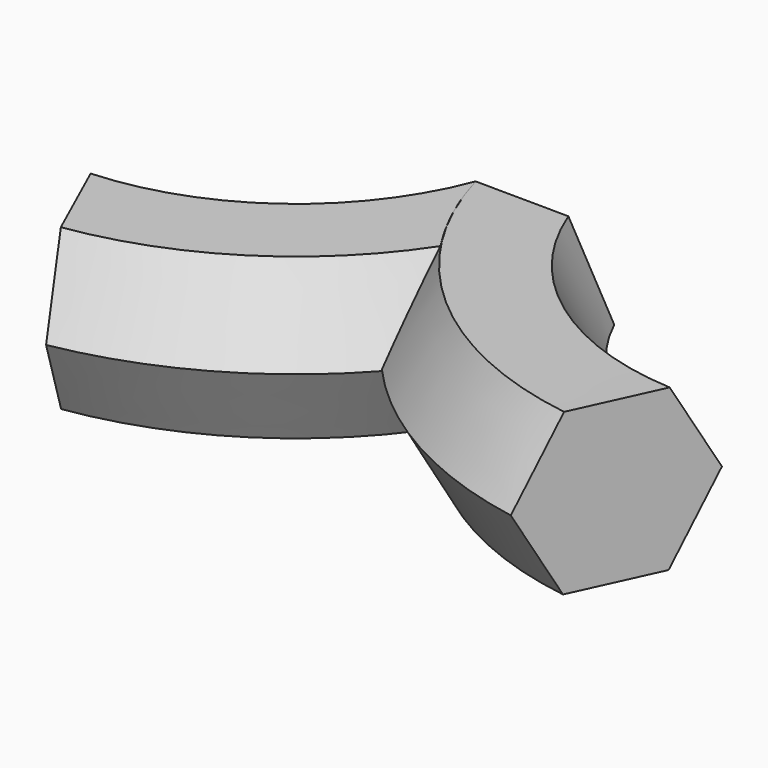
from build123d import *


with BuildPart() as f2:
    # F2: sweep along a path in F1
    with BuildLine(Plane.XY) as f2_path:
        ThreePointArc((-88.857807, -72.113179), (-33.770109, -49.190349), (0, 0))
    # F0 (on Front) → F2 (sweep)
    with BuildSketch(Plane.XZ):
        Polygon((-30.479473, 27.065896), (-15.394954, 0.580283), (15.084519, 0.401054), (30.479473, 26.707437), (15.394954, 53.19305), (-15.084519, 53.372279), align=None)
    sweep(path=f2_path.line)

    # F3: sweep along a path in F1
    with BuildLine(Plane.XY) as f3_path:
        ThreePointArc((88.857807, -72.113179), (33.770109, -49.190349), (0, 0))
    # F0 (on Front) → F3 (sweep)
    with BuildSketch(Plane.XZ):
        Polygon((-30.479473, 27.065896), (-15.394954, 0.580283), (15.084519, 0.401054), (30.479473, 26.707437), (15.394954, 53.19305), (-15.084519, 53.372279), align=None)
    sweep(path=f3_path.line)


solid = f2.part
